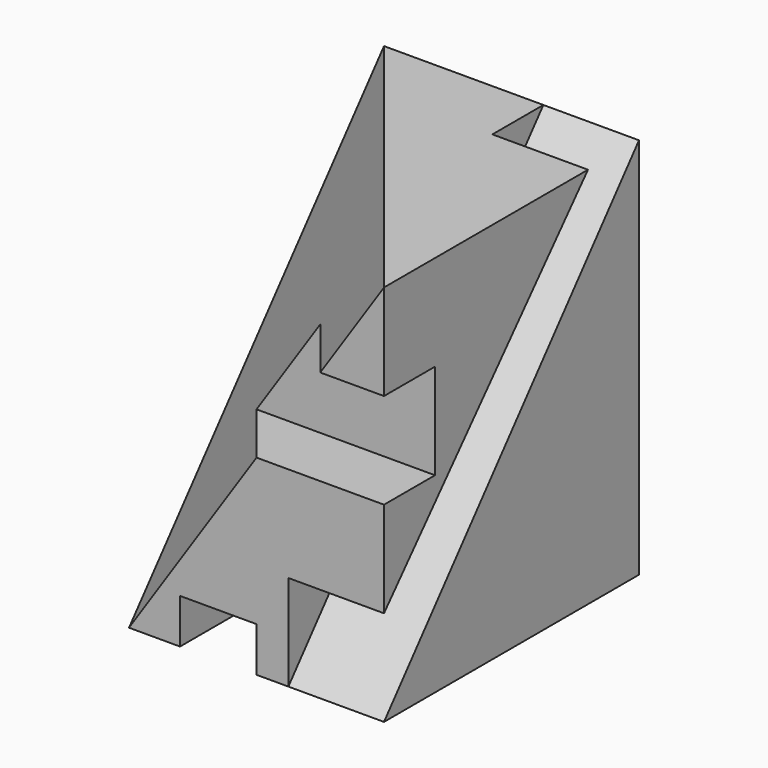
from build123d import *

# Parameters (mm, degrees)
F0_W     = 40
F0_H     = 60
F1_DEPTH = 50
F4_DEPTH = 15
F5_W     = 12
F5_H     = 7
F6_DEPTH = 50.001
F7_W     = 10
F7_H     = 15
F8_DEPTH = 40.001


with BuildPart() as f1:
    # F0 (on Front) → F1 (new body)
    with BuildSketch(Plane.XZ):
        with Locations((20, 30)):
            Rectangle(F0_W, F0_H)
    extrude(amount=-F1_DEPTH)

    # F2 (on face) → F4 (cut, through all)
    with BuildSketch(Plane.YZ.offset(40)):
        Polygon((0, 15), (0, 0), (50, 60), (40, 60), align=None)
    extrude(amount=-F4_DEPTH, mode=Mode.SUBTRACT)

    # F5 (on face) → F6 (cut, through all)
    with BuildSketch(Plane.XZ):
        with Locations((14, 3.5)):
            Rectangle(F5_W, F5_H)
    extrude(amount=-F6_DEPTH, mode=Mode.SUBTRACT)

    # F7 (on face) → F8 (cut, through all)
    with BuildSketch(Plane.YZ.offset(40)):
        with Locations((5, 37.5)):
            Rectangle(F7_W, F7_H)
    extrude(amount=-F8_DEPTH, mode=Mode.SUBTRACT)

    # F9 (on face) → F10 section 0
    with BuildSketch(Plane.XY.offset(60), mode=Mode.PRIVATE) as f10_s0:
        Polygon((40, 0), (0, 50), (0, 0), align=None)
    loft([f10_s0.sketch, Vertex(0, 0, 0)], mode=Mode.SUBTRACT)


solid = f1.part
